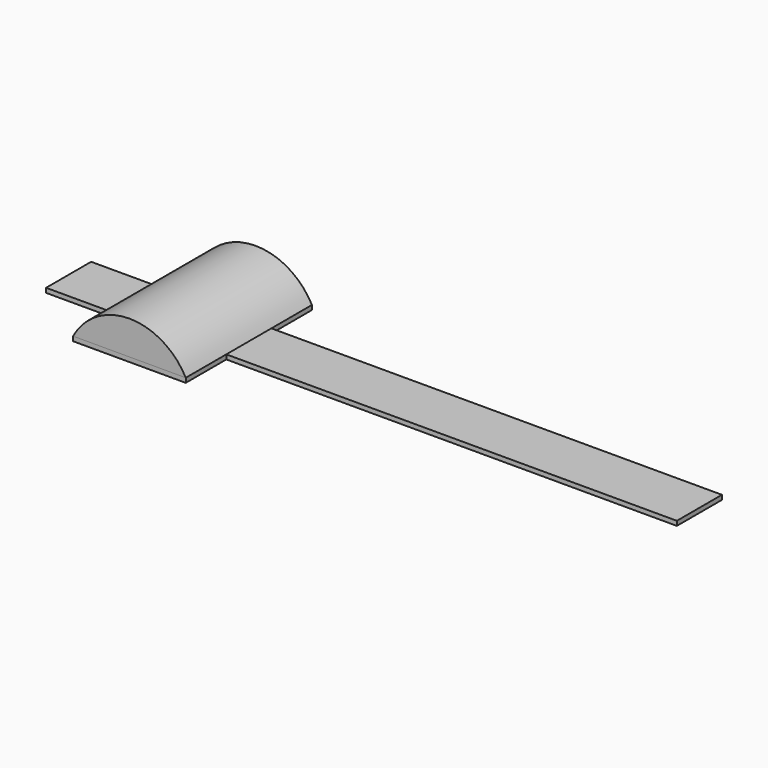
from build123d import *

# Parameters (mm, degrees)
F1_DEPTH      = 2
F3_DEPTH      = 35
F3_DEPTH_BACK = 35


with BuildPart() as f1:
    # F0 (on Top) → F1 (new body)
    with BuildSketch(Plane.XY):
        Polygon((25, 15), (25, 35), (-25, 35), (-25, 15), (-25, 12.5), (-55, 12.5), (-55, -12.5), (-25, -12.5), (-25, -15), (-25, -35), (25, -35), (25, -15), (25, -12.5), (225, -12.5), (225, 12.5), (25, 12.5), align=None)
    extrude(amount=F1_DEPTH)


with BuildPart() as f3:
    # F2 (on Front) → F3 (new body, two sides)
    with BuildSketch(Plane.XZ) as f3_sk:
        with BuildLine():
            Line((-25, 2), (25, 2))
            ThreePointArc((25, 2), (0, 17), (-25, 2))
        make_face()
    extrude(amount=F3_DEPTH)
    extrude(f3_sk.sketch, amount=-F3_DEPTH_BACK)


solid = Compound([f1.part, f3.part])
